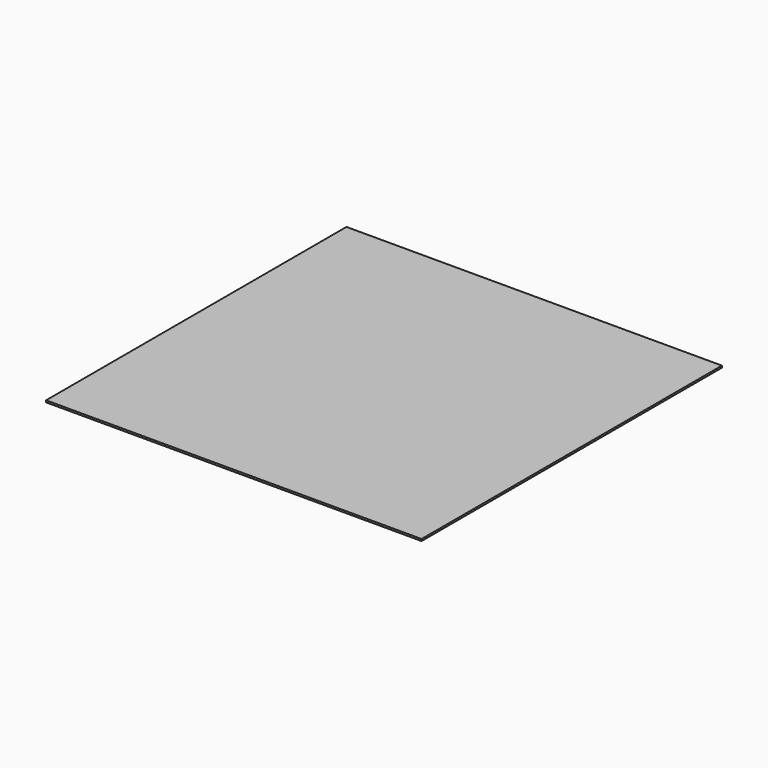
from build123d import *

# Parameters (mm, degrees)
SKETCH_W  = 2000
SKETCH_H  = 2000
PAD_DEPTH = 5


with BuildPart() as part:
    # Sketch → Pad (new body, symmetric)
    with BuildSketch(Plane.XY):
        Rectangle(SKETCH_W, SKETCH_H)
    extrude(amount=PAD_DEPTH, both=True)


solid = part.part
